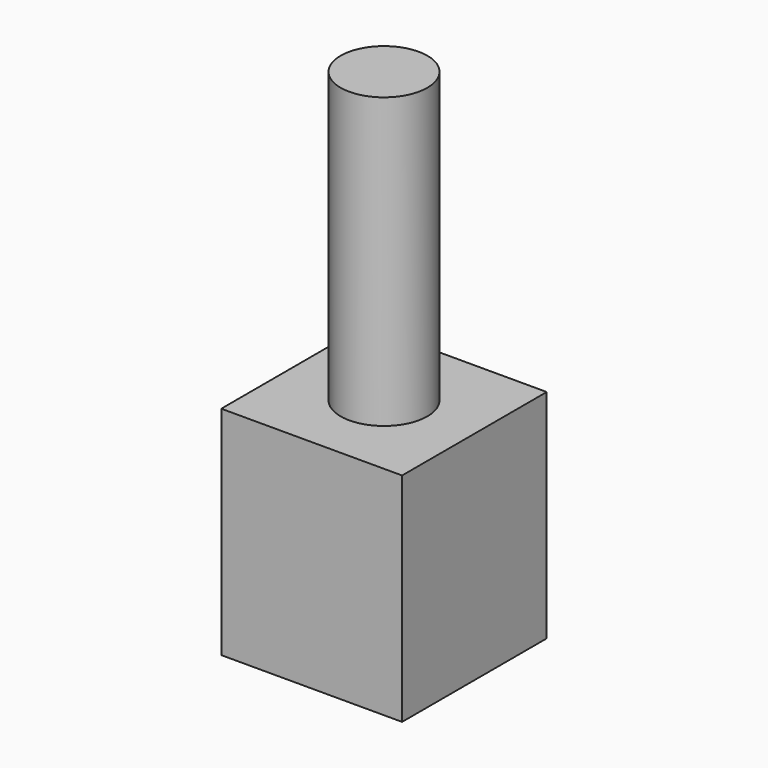
from build123d import *

# Parameters (mm, degrees)
F0_W     = 25
F0_H     = 25
F1_DEPTH = 10
F4_W     = 25
F4_H     = 25
F4_R     = 4.5
F5_DEPTH = 20
F6_R     = 6
F7_DEPTH = 40


with BuildPart() as f1:
    # F0 (on Top) → F1 (new body)
    with BuildSketch(Plane.XY):
        Rectangle(F0_W, F0_H)
    extrude(amount=F1_DEPTH)

    # F2 (on Front) → F3 (revolve, cut)
    with BuildSketch(Plane.XZ):
        Polygon((4.5, 0), (0, 8), (0, 0), align=None)
    revolve(axis=Axis((0, 0, 4), (0, 0, -1)), mode=Mode.SUBTRACT)

    # F4 (on Top) → F5 (join)
    with BuildSketch(Plane.XY):
        Rectangle(F4_W, F4_H)
        Circle(F4_R, mode=Mode.SUBTRACT)
    extrude(amount=-F5_DEPTH)

    # F6 (on face) → F7 (join)
    with BuildSketch(Plane.XY.offset(10)):
        Circle(F6_R)
    extrude(amount=F7_DEPTH)


solid = f1.part
